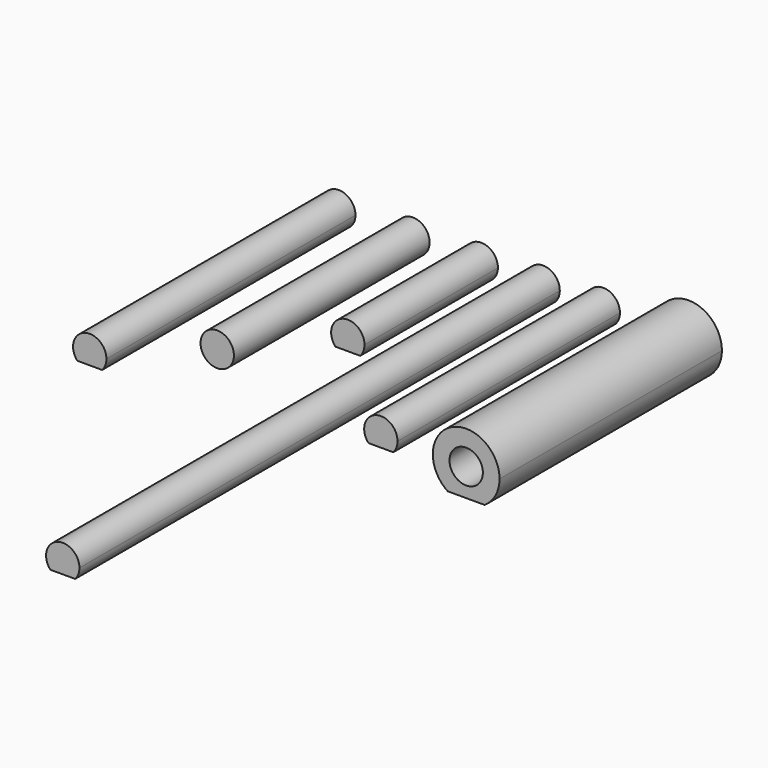
from build123d import *

# Parameters (mm, degrees)
F1_DEPTH = 28
F0_R     = 1.5
F2_DEPTH = 22
F3_DEPTH = 15
F4_DEPTH = 54
F5_DEPTH = 25
F6_DEPTH = 25


with BuildPart() as f1:
    # F0 (on Front) → F1 (new body)
    with BuildSketch(Plane.XZ):
        with BuildLine():
            ThreePointArc((-8.587657, -1), (-8.304432, -0.535233), (-8.205691, 0))
            ThreePointArc((-8.205691, 0), (-10.240924, 1.401259), (-10.823725, -1))
            Line((-10.823725, -1), (-8.587657, -1))
        make_face()
    extrude(amount=F1_DEPTH)


with BuildPart() as f2:
    # F0 (on Front) → F2 (new body)
    with BuildSketch(Plane.XZ):
        with Locations((-3.040622, 0)):
            Circle(F0_R)
    extrude(amount=F2_DEPTH)


with BuildPart() as f3:
    # F0 (on Front) → F3 (new body)
    with BuildSketch(Plane.XZ):
        with BuildLine():
            ThreePointArc((4.603174, 0), (2.567941, 1.401259), (1.98514, -1))
            Line((1.98514, -1), (4.221208, -1))
            ThreePointArc((4.221208, -1), (4.504432, -0.535233), (4.603174, 0))
        make_face()
    extrude(amount=F3_DEPTH)


with BuildPart() as f4:
    # F0 (on Front) → F4 (new body)
    with BuildSketch(Plane.XZ):
        with BuildLine():
            ThreePointArc((10.168094, 0), (8.132861, 1.401259), (7.55006, -1))
            Line((7.55006, -1), (9.786128, -1))
            ThreePointArc((9.786128, -1), (10.069352, -0.535233), (10.168094, 0))
        make_face()
    extrude(amount=F4_DEPTH)


with BuildPart() as f5:
    # F0 (on Front) → F5 (new body)
    with BuildSketch(Plane.XZ):
        with BuildLine():
            ThreePointArc((15.194305, -1), (15.47753, -0.535233), (15.576271, 0))
            ThreePointArc((15.576271, 0), (13.541038, 1.401259), (12.958237, -1))
            Line((12.958237, -1), (15.194305, -1))
        make_face()
    extrude(amount=F5_DEPTH)


with BuildPart() as f6:
    # F0 (on Front) → F6 (new body)
    with BuildSketch(Plane.XZ):
        with BuildLine():
            ThreePointArc((23.40736, -2.5), (24.39243, -1.418637), (24.749048, 0))
            ThreePointArc((24.749048, 0), (20.33041, 2.643382), (20.090735, -2.5))
            Line((20.090735, -2.5), (23.40736, -2.5))
        make_face()
        with Locations((21.749048, 0)):
            Circle(F0_R, mode=Mode.SUBTRACT)
    extrude(amount=F6_DEPTH)


solid = Compound([f1.part, f2.part, f3.part, f4.part, f5.part, f6.part])
